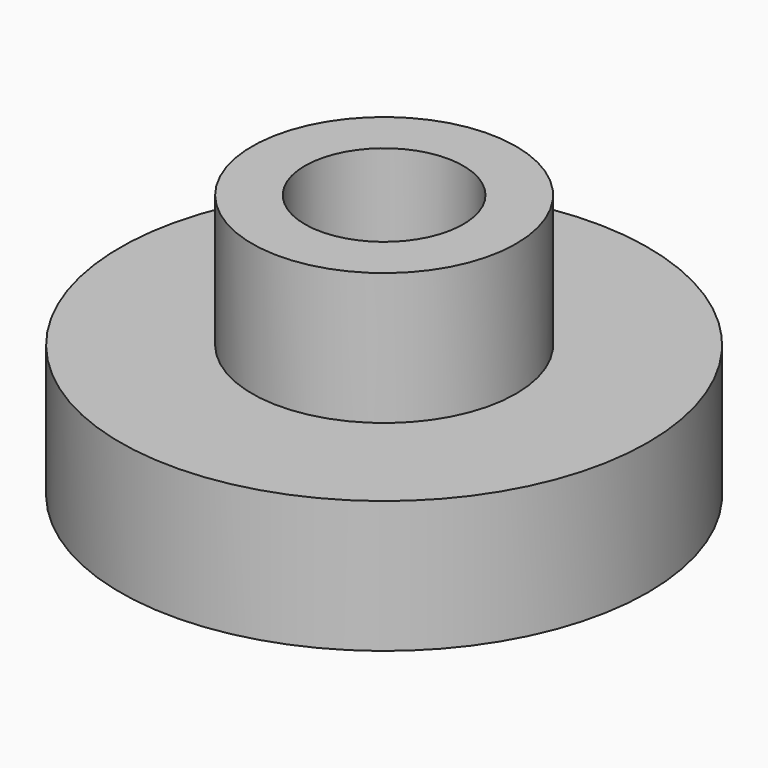
from build123d import *

# Parameters (mm, degrees)
F3_D = 60


with BuildPart() as f1:
    # F0 (on Front) → F1 (revolve)
    with BuildSketch(Plane.XZ):
        Polygon((0, 100), (0, 0), (100, 0), (100, 50), (50, 50), (50, 100), align=None)
    revolve(axis=Axis((0, 0, 50), (0, 0, -1)))

    # F3 (through all)
    with Locations(Plane.XY.offset(100)):
        with Locations((0, 0)):
            Hole(F3_D / 2)


solid = f1.part
